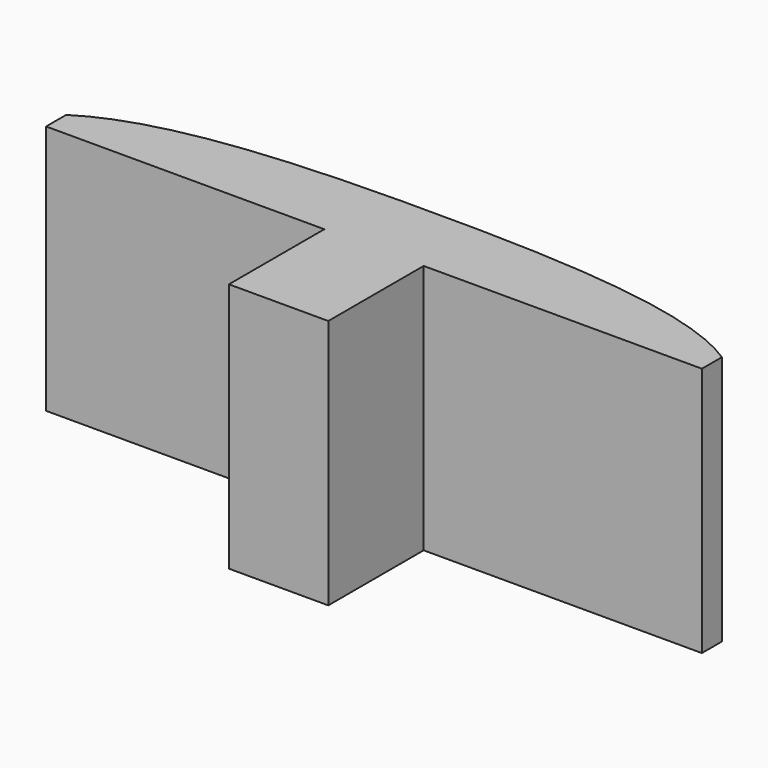
from build123d import *

# Parameters (mm, degrees)
F1_DEPTH = 20


with BuildPart() as f1:
    # F0 (on Top) → F1 (new body)
    with BuildSketch(Plane.XY):
        with BuildLine():
            Line((0, 9.525), (0, 0))
            Line((0, 0), (7.9375, 0))
            Line((7.9375, 0), (7.9375, 9.525))
            Line((7.9375, 9.525), (30.1625, 9.525))
            Line((30.1625, 9.525), (30.1625, 11.525))
            add(Edge.make_bspline(
                [(-22.225, 11.525), (-16.82, 15.041926), (3.968839, 16.008074), (24.757321, 15.041926), (30.1625, 11.525)],
                knots=[0, 0, 0, 0, 26.497406, 52.994813, 52.994813, 52.994813, 52.994813], degree=3))
            Line((-22.225, 11.525), (-22.225, 9.525))
            Line((-22.225, 9.525), (0, 9.525))
        make_face()
    extrude(amount=F1_DEPTH)


solid = f1.part
